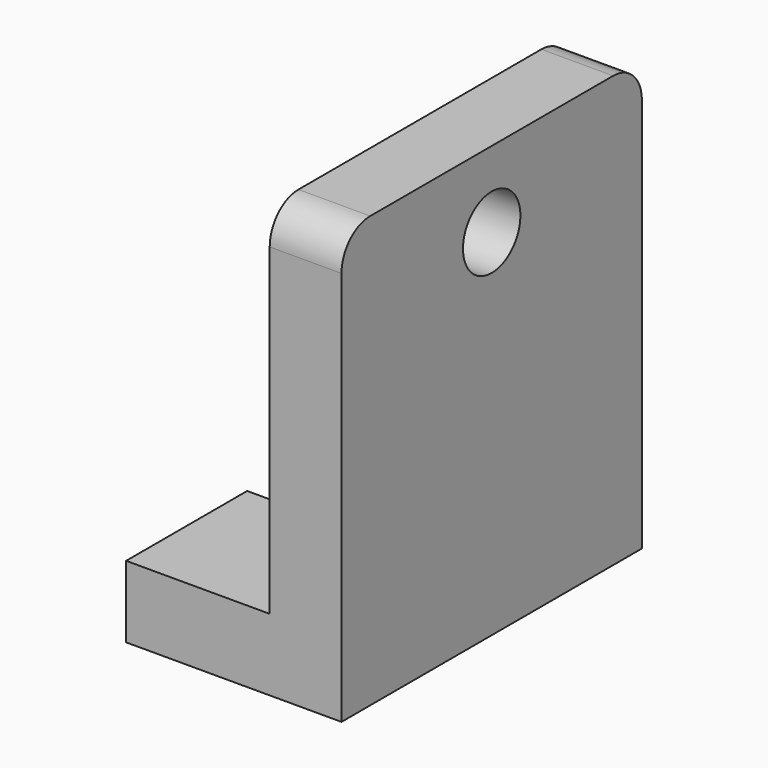
from build123d import *

# Parameters (mm, degrees)
F1_DEPTH  = 52.3
F2_R      = 5
F3_DEPTH  = 12.5
F4_R      = 5
F5_R      = 5
F6_R      = 7.07449
F6_R_2    = 5
F8_DEPTH  = 2.1
F10_DEPTH = 25


with BuildPart() as f1:
    # F0 (on Front) → F1 (new body)
    with BuildSketch(Plane.XZ):
        Polygon((0, 0), (0, 60), (-10, 60), (-10, 10), (-30, 10), (-30, 0), align=None)
    extrude(amount=F1_DEPTH)

    # F2 (on face) → F3 (cut, symmetric)
    with BuildSketch(Plane.YZ):
        with Locations((-26.15, 49.421053)):
            Circle(F2_R)
    extrude(amount=F3_DEPTH, both=True, mode=Mode.SUBTRACT)

    # F4
    f4_edges = [f1.edges().sort_by_distance(p)[0] for p in [
        (-5, -52.3, 60),
    ]]
    fillet(f4_edges, radius=F4_R)

    # F5
    f5_edges = [f1.edges().sort_by_distance(p)[0] for p in [
        (-5, 0, 60),
    ]]
    fillet(f5_edges, radius=F5_R)

    # F6 (on face) → F8 (cut)
    with BuildSketch(Plane(origin=(-10, 0, 0), x_dir=(0, -1, 0), z_dir=(-1, 0, 0))):
        with Locations((26.15, 49.421053)):
            Circle(F6_R)
        with Locations((26.15, 49.421053)):
            Circle(F6_R_2, mode=Mode.SUBTRACT)
    extrude(amount=-F8_DEPTH, mode=Mode.SUBTRACT)

    # F9 (on face) → F10 (cut)
    with BuildSketch(Plane.XY.offset(10)):
        with BuildLine():
            ThreePointArc((-22.569968, -31.228698), (-18.247574, -30.169685), (-16.337931, -26.15))
            ThreePointArc((-16.337931, -26.15), (-18.038064, -22.310553), (-22.023625, -20.988769))
            ThreePointArc((-22.023625, -20.988769), (-26.701406, -25.873729), (-22.569968, -31.228698))
        make_face()
        with BuildLine():
            ThreePointArc((-22.569968, -31.228698), (-26.701406, -25.873729), (-22.023625, -20.988769))
            Line((-22.023625, -20.988769), (-30, -20.988769))
            Line((-30, -20.988769), (-30, -31.228698))
            Line((-30, -31.228698), (-22.569968, -31.228698))
        make_face()
    extrude(amount=-F10_DEPTH, mode=Mode.SUBTRACT)


solid = f1.part
